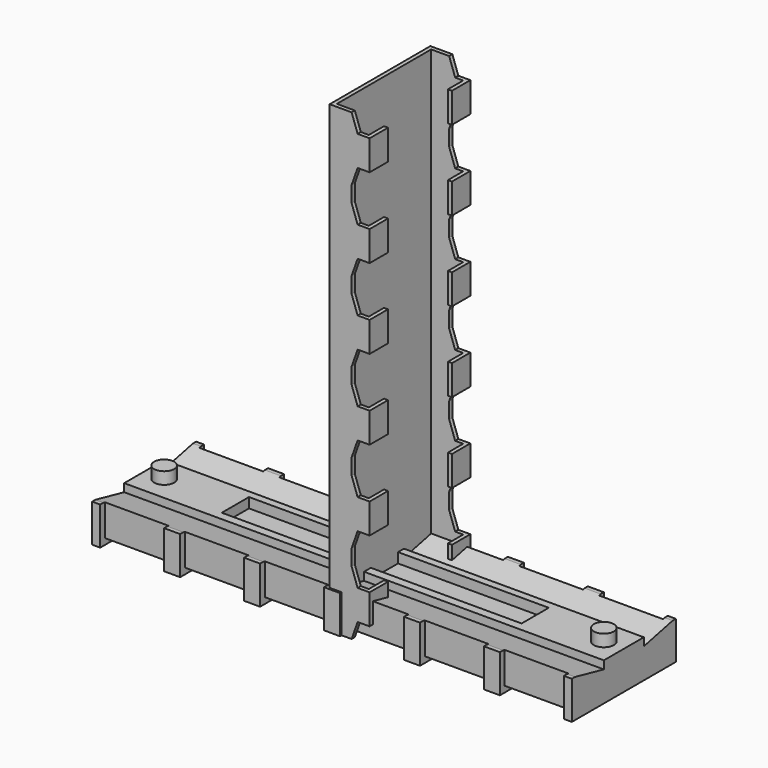
from build123d import *

# Parameters (mm, degrees)
PAD002_DEPTH           = 23.2
POCKET004_DEPTH        = 6.301
LINEARPATTERN002_COUNT = 7
LINEARPATTERN002_PITCH = 4
SKETCH_W               = 24
SKETCH_H               = 6.5
PAD_DEPTH              = 1.9
POCKET_DEPTH           = 73.875242
SKETCH002_R            = 0.5
PAD001_DEPTH           = 0.6
SKETCH003_W            = 15
SKETCH003_H            = 1.7
POCKET001_DEPTH        = 0.5
SKETCH004_W            = 3.2
SKETCH004_H            = 8.173207
POCKET002_DEPTH        = 0.3
LINEARPATTERN_COUNT    = 6
LINEARPATTERN_PITCH    = 4
SKETCH005_W            = 3.2
SKETCH005_H            = 0.3
POCKET003_DEPTH        = 5
LINEARPATTERN001_COUNT = 6
LINEARPATTERN001_PITCH = 4


with BuildPart() as body001:
    # Sketch006 → Pad002 (new body)
    with BuildSketch(Plane.XY):
        Polygon((-0.2, 0), (-0.2, -3.15), (1.8, -3.15), (1.8, -2), (1.6, -2), (1.6, -2.95), (0, -2.95), (0, 0), (0, 2.95), (1.6, 2.95), (1.6, 2), (1.8, 2), (1.8, 3.15), (-0.2, 3.15), align=None)
    extrude(amount=PAD002_DEPTH)

    # Sketch007 (on Face13 of Pad002) → Pocket004 (cut, through all)
    with BuildSketch(Plane(origin=(0, 3.15, 0), x_dir=(-1, 0, 0), z_dir=(0, 1, 0))):
        Polygon((-2.3, 0), (-0.9, 0), (-1.2, 0.85), (-2.2, 0.85), (-2.2, 2.35), (-1.2, 2.35), (-0.9, 3.2), (-0.9, 4), (-2.3, 4), align=None)
    pocket004 = extrude(amount=-POCKET004_DEPTH, mode=Mode.SUBTRACT)

    # LinearPattern002: Pocket004 ×7
    with Locations(*[(0, 0, i * LINEARPATTERN002_PITCH) for i in range(1, LINEARPATTERN002_COUNT)]):
        add(pocket004, mode=Mode.SUBTRACT)


with BuildPart() as body:
    # Sketch → Pad (new body)
    with BuildSketch(Plane.XY):
        Rectangle(SKETCH_W, SKETCH_H)
    extrude(amount=PAD_DEPTH)

    # Sketch001 (on Face4 of Pad) → Pocket (cut, through all)
    with BuildSketch(Plane(origin=(-12, 0, 0), x_dir=(0, -1, 0), z_dir=(-1, 0, 0))):
        Polygon((-3.25, 2), (-1.25, 2), (-1.25, 1.5), (-3.05, 1.9), (-3.25, 1.9), align=None)
    pocket = extrude(amount=-POCKET_DEPTH, mode=Mode.SUBTRACT)

    # Mirrored: Pocket across Sketch001 V_Axis
    add(pocket.mirror(Plane(origin=(-12, 0, 0), x_dir=(-1, 0, 0), z_dir=(0, -1, 0))), mode=Mode.SUBTRACT)

    # Sketch002 (on Face8 of Mirrored) → Pad001 (join)
    with BuildSketch(Plane.XY.offset(1.9)):
        with Locations((-11, 0)):
            Circle(SKETCH002_R)
        with Locations((11, 0)):
            Circle(SKETCH002_R)
    extrude(amount=PAD001_DEPTH)

    # Sketch003 (on Face8 of Pad001) → Pocket001 (cut)
    with BuildSketch(Plane.XY.offset(1.9)):
        with Locations((0.042304, 0.027832)):
            Rectangle(SKETCH003_W, SKETCH003_H)
    extrude(amount=-POCKET001_DEPTH, mode=Mode.SUBTRACT)

    # Sketch004 (on Face4 of Pocket001) → Pocket002 (cut)
    with BuildSketch(Plane(origin=(0, 0, 0), x_dir=(1, 0, 0), z_dir=(0, 0, -1))):
        with Locations((-10, 0.068644)):
            Rectangle(SKETCH004_W, SKETCH004_H)
    pocket002 = extrude(amount=-POCKET002_DEPTH, mode=Mode.SUBTRACT)

    # LinearPattern: Pocket002 ×6
    with Locations(*[(i * LINEARPATTERN_PITCH, 0, 0) for i in range(1, LINEARPATTERN_COUNT)]):
        add(pocket002, mode=Mode.SUBTRACT)

    # Sketch005 (on Face6 of LinearPattern) → Pocket003 (cut)
    with BuildSketch(Plane(origin=(0, 0, 0), x_dir=(1, 0, 0), z_dir=(0, 0, -1))):
        with Locations((-10, 3.1)):
            Rectangle(SKETCH005_W, SKETCH005_H)
        with Locations((-10, -3.1)):
            Rectangle(SKETCH005_W, SKETCH005_H)
    pocket003 = extrude(amount=-POCKET003_DEPTH, mode=Mode.SUBTRACT)

    # LinearPattern001: Pocket003 ×6
    with Locations(*[(i * LINEARPATTERN001_PITCH, 0, 0) for i in range(1, LINEARPATTERN001_COUNT)]):
        add(pocket003, mode=Mode.SUBTRACT)


solid = Compound([body001.part, body.part])
